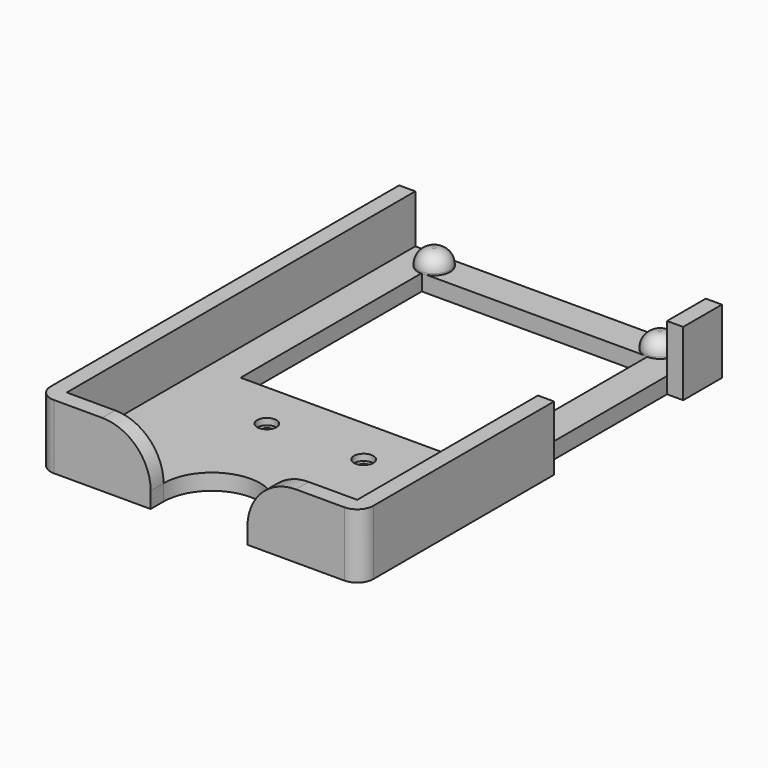
from build123d import *

# Parameters (mm, degrees)
SKETCH_W        = 100
SKETCH_H        = 140
PAD_DEPTH       = 20
SKETCH001_W     = 90
SKETCH001_H     = 135
POCKET_DEPTH    = 15
SKETCH003_R     = 3
POCKET001_DEPTH = 2
SKETCH004_R     = 1.6
POCKET002_DEPTH = 349.411162
SKETCH005_W     = 5
SKETCH005_H     = 50
POCKET003_DEPTH = 20.001
SKETCH006_W     = 30
SKETCH006_H     = 5
POCKET004_DEPTH = 20.001
SKETCH007_W     = 70
SKETCH007_H     = 70.156743
POCKET005_DEPTH = 5.001
SKETCH008_R     = 15
POCKET006_DEPTH = 5.001
FILLET_R        = 5
FILLET001_R     = 5
FILLET002_R     = 15
FILLET003_R     = 15
SKETCH009_R     = 5
PAD001_DEPTH    = 5
SKETCH010_R     = 5
PAD002_DEPTH    = 5
FILLET004_R     = 4.5
FILLET005_R     = 4.5
FILLET006_R     = 4.5
FILLET007_R     = 4.5


with BuildPart() as part:
    # Sketch → Pad (new body)
    with BuildSketch(Plane.XY):
        Rectangle(SKETCH_W, SKETCH_H)
    extrude(amount=PAD_DEPTH)

    # Sketch001 → Pocket (cut)
    with BuildSketch(Plane.XY.offset(20)):
        with Locations((0, 2.5)):
            Rectangle(SKETCH001_W, SKETCH001_H)
    extrude(amount=-POCKET_DEPTH, mode=Mode.SUBTRACT)

    # Sketch003 → Pocket001 (cut)
    with BuildSketch(Plane.XY.offset(5)):
        with Locations((-15, -25)):
            Circle(SKETCH003_R)
    pocket001 = extrude(amount=-POCKET001_DEPTH, mode=Mode.SUBTRACT)

    # Sketch004 → Pocket002 (cut, through all)
    with BuildSketch(Plane.XY.offset(3)):
        with Locations((-15, -25)):
            Circle(SKETCH004_R)
    pocket002 = extrude(amount=-POCKET002_DEPTH, mode=Mode.SUBTRACT)

    # Mirrored: Pocket002, Pocket001 across Sketch004 V_Axis
    add(pocket002.mirror(Plane(origin=(0, 0, 3), x_dir=(0, 0, 1), z_dir=(1, 0, 0))), mode=Mode.SUBTRACT)
    add(pocket001.mirror(Plane(origin=(0, 0, 3), x_dir=(0, 0, 1), z_dir=(1, 0, 0))), mode=Mode.SUBTRACT)

    # Sketch005 → Pocket003 (cut, through all)
    with BuildSketch(Plane.XY.offset(20)):
        with Locations((47.5, 30)):
            Rectangle(SKETCH005_W, SKETCH005_H)
    extrude(amount=-POCKET003_DEPTH, mode=Mode.SUBTRACT)

    # Sketch006 → Pocket004 (cut, through all)
    with BuildSketch(Plane.XY.offset(20)):
        with Locations((0, -67.5)):
            Rectangle(SKETCH006_W, SKETCH006_H)
    extrude(amount=-POCKET004_DEPTH, mode=Mode.SUBTRACT)

    # Sketch007 → Pocket005 (cut, through all)
    with BuildSketch(Plane.XY.offset(5)):
        with Locations((0, 24.921629)):
            Rectangle(SKETCH007_W, SKETCH007_H)
    extrude(amount=-POCKET005_DEPTH, mode=Mode.SUBTRACT)

    # Sketch008 → Pocket006 (cut, through all)
    with BuildSketch(Plane.XY.offset(5)):
        with Locations((0, -65)):
            Circle(SKETCH008_R)
    extrude(amount=-POCKET006_DEPTH, mode=Mode.SUBTRACT)

    # Fillet
    fillet_edges = [part.edges().sort_by_distance(p)[0] for p in [
        (50, -70, 10),
    ]]
    fillet(fillet_edges, radius=FILLET_R)

    # Fillet001
    fillet001_edges = [part.edges().sort_by_distance(p)[0] for p in [
        (-50, -70, 10),
    ]]
    fillet(fillet001_edges, radius=FILLET001_R)

    # Fillet002
    fillet002_edges = [part.edges().sort_by_distance(p)[0] for p in [
        (-15, -67.5, 20),
    ]]
    fillet(fillet002_edges, radius=FILLET002_R)

    # Fillet003
    fillet003_edges = [part.edges().sort_by_distance(p)[0] for p in [
        (15, -67.5, 20),
    ]]
    fillet(fillet003_edges, radius=FILLET003_R)

    # Sketch009 → Pad001 (new body)
    with BuildSketch(Plane.XY.offset(5)):
        with Locations((35, 64.8)):
            Circle(SKETCH009_R)
    pad001 = extrude(amount=PAD001_DEPTH)

    # Mirrored001: Pad001 across Sketch009 V_Axis
    add(pad001.mirror(Plane(origin=(0, 0, 5), x_dir=(0, 0, 1), z_dir=(1, 0, 0))))

    # Sketch010 → Pad002 (new body)
    with BuildSketch(Plane.XY.offset(5)):
        with Locations((-35, -55)):
            Circle(SKETCH010_R)
    pad002 = extrude(amount=PAD002_DEPTH)

    # Mirrored002: Pad002 across Sketch010 V_Axis
    add(pad002.mirror(Plane(origin=(0, 0, 5), x_dir=(0, 0, 1), z_dir=(1, 0, 0))))

    # Fillet004
    fillet004_edges = [part.edges().sort_by_distance(p)[0] for p in [
        (-40, -55, 10),
    ]]
    fillet(fillet004_edges, radius=FILLET004_R)

    # Fillet005
    fillet005_edges = [part.edges().sort_by_distance(p)[0] for p in [
        (40, -55, 10),
    ]]
    fillet(fillet005_edges, radius=FILLET005_R)

    # Fillet006
    fillet006_edges = [part.edges().sort_by_distance(p)[0] for p in [
        (30, 64.8, 10),
    ]]
    fillet(fillet006_edges, radius=FILLET006_R)

    # Fillet007
    fillet007_edges = [part.edges().sort_by_distance(p)[0] for p in [
        (-30, 64.8, 10),
    ]]
    fillet(fillet007_edges, radius=FILLET007_R)


solid = part.part
